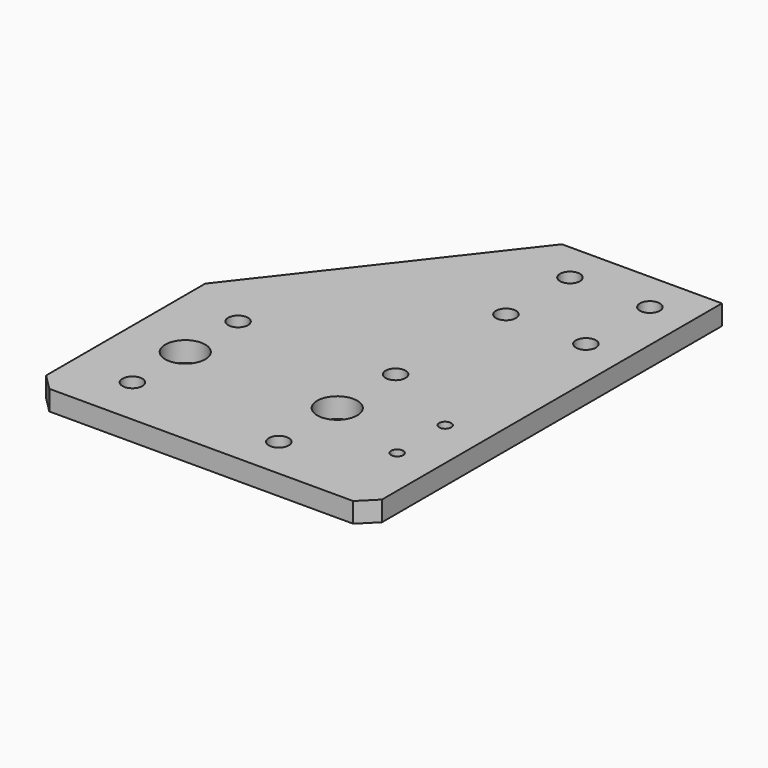
from build123d import *

# Parameters (mm, degrees)
SKETCH_R     = 2.5
SKETCH_R_2   = 5
SKETCH_R_3   = 1.5
PAD_DEPTH    = 5
CHAMFER_SIZE = 4


with BuildPart() as part:
    # Sketch → Pad (new body)
    with BuildSketch(Plane.XY):
        Polygon((84, 110.25), (44, 110.25), (0, 53.75), (0, 0), (84, 0), align=None)
        with Locations((15, 45.25)):
            Circle(SKETCH_R, mode=Mode.SUBTRACT)
        with Locations((15, 12.25)):
            Circle(SKETCH_R, mode=Mode.SUBTRACT)
        with Locations((15, 28.75)):
            Circle(SKETCH_R_2, mode=Mode.SUBTRACT)
        with Locations((53, 47)):
            Circle(SKETCH_R, mode=Mode.SUBTRACT)
        with Locations((53, 28.75)):
            Circle(SKETCH_R_2, mode=Mode.SUBTRACT)
        with Locations((53, 10.5)):
            Circle(SKETCH_R, mode=Mode.SUBTRACT)
        with Locations((54, 80.25)):
            Circle(SKETCH_R, mode=Mode.SUBTRACT)
        with Locations((74, 80.25)):
            Circle(SKETCH_R, mode=Mode.SUBTRACT)
        with Locations((54, 100.25)):
            Circle(SKETCH_R, mode=Mode.SUBTRACT)
        with Locations((74, 100.25)):
            Circle(SKETCH_R, mode=Mode.SUBTRACT)
        with Locations((74, 36.25)):
            Circle(SKETCH_R_3, mode=Mode.SUBTRACT)
        with Locations((74, 21.25)):
            Circle(SKETCH_R_3, mode=Mode.SUBTRACT)
    extrude(amount=PAD_DEPTH)

    # Chamfer
    chamfer_edges = [part.edges().sort_by_distance(p)[0] for p in [
        (0, 0, 2.5),
        (84, 0, 2.5),
    ]]
    chamfer(chamfer_edges, length=CHAMFER_SIZE)


solid = part.part
